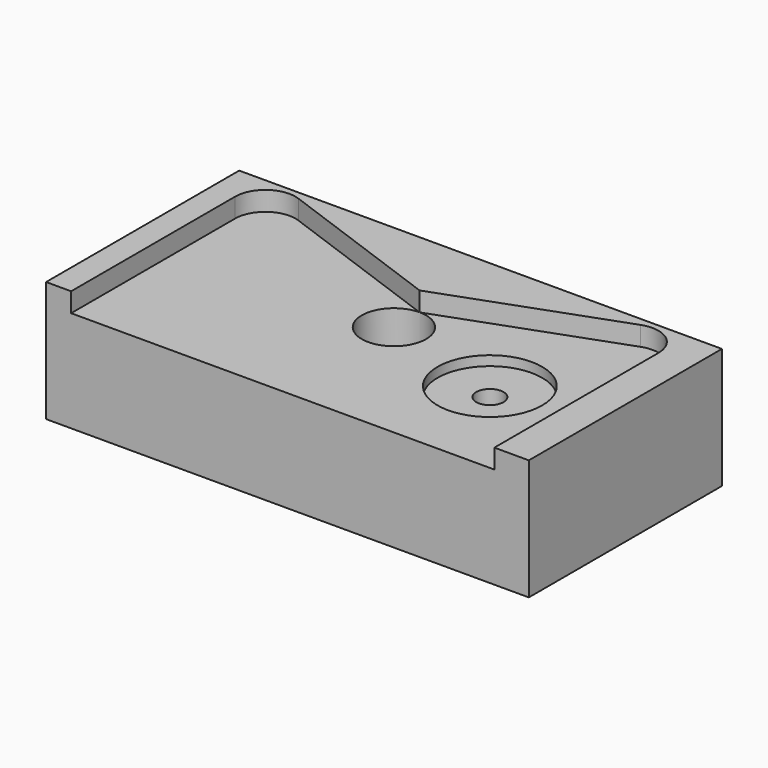
from build123d import *

# Parameters (mm, degrees)
F0_W      = 76.2
F0_H      = 38.1
F1_DEPTH  = 19.05
F3_DEPTH  = 3.048
F4_R      = 8.255
F5_DEPTH  = 4.572
F6_R      = 2.159
F7_DEPTH  = 12.7
F8_R      = 5.08
F9_DEPTH  = 12.7
F11_DEPTH = 3.048


with BuildPart() as f1:
    # F0 (on Top) → F1 (new body)
    with BuildSketch(Plane.XY):
        with Locations((38.1, 19.05)):
            Rectangle(F0_W, F0_H)
    extrude(amount=F1_DEPTH)

    # F2 (on face) → F3 (cut)
    with BuildSketch(Plane.XY.offset(19.05)):
        with BuildLine():
            ThreePointArc((7.0865621097, 27.8874175237), (11.4470908204, 28.4614920193), (13.4779330423, 32.3627036302))
            ThreePointArc((13.4779330423, 32.3627036302), (12.6166446532, 35.0943614084), (10.3443039749, 36.8379897367))
            ThreePointArc((10.3443039749, 36.8379897367), (4.2401469358, 33.9915745628), (7.0865621097, 27.8874175237))
        make_face()
        with BuildLine():
            ThreePointArc((10.3443039749, 36.8379897367), (12.6166446532, 35.0943614084), (13.4779330423, 32.3627036302))
            ThreePointArc((13.4779330423, 32.3627036302), (11.4470908204, 28.4614920193), (7.0865621097, 27.8874175237))
            Line((7.0865621097, 27.8874175237), (35.7283931912, 17.4626435552))
            ThreePointArc((35.7283931912, 17.4626435552), (32.5947641238, 21.9379296617), (35.7283931912, 26.4132157682))
            Line((35.7283931912, 26.4132157682), (37.3572641238, 27.0060763031))
            Line((37.3572641238, 27.0060763031), (10.3443039749, 36.8379897367))
        make_face()
        with BuildLine():
            Line((64.3702242728, 36.8379897367), (37.3572641238, 27.0060763031))
            Line((37.3572641238, 27.0060763031), (38.9861350564, 26.4132157682))
            ThreePointArc((38.9861350564, 26.4132157682), (41.2584757347, 24.6695874398), (42.1197641238, 21.9379296617))
            ThreePointArc((42.1197641238, 21.9379296617), (41.2584757347, 19.2062718836), (38.9861350564, 17.4626435552))
            Line((38.9861350564, 17.4626435552), (67.627966138, 27.8874175237))
            ThreePointArc((67.627966138, 27.8874175237), (61.5238090989, 30.7338326977), (64.3702242728, 36.8379897367))
        make_face()
        with BuildLine():
            Line((38.9861350564, 26.4132157682), (37.3572641238, 27.0060763031))
            Line((37.3572641238, 27.0060763031), (35.7283931912, 26.4132157682))
            ThreePointArc((35.7283931912, 26.4132157682), (37.3572641238, 26.7004296617), (38.9861350564, 26.4132157682))
        make_face()
        with BuildLine():
            ThreePointArc((35.7283931912, 26.4132157682), (32.5947641238, 21.9379296617), (35.7283931912, 17.4626435552))
            ThreePointArc((35.7283931912, 17.4626435552), (37.3572641238, 17.1754296617), (38.9861350564, 17.4626435552))
            ThreePointArc((38.9861350564, 17.4626435552), (41.2584757347, 19.2062718836), (42.1197641238, 21.9379296617))
            ThreePointArc((42.1197641238, 21.9379296617), (41.2584757347, 24.6695874398), (38.9861350564, 26.4132157682))
            ThreePointArc((38.9861350564, 26.4132157682), (37.3572641238, 26.7004296617), (35.7283931912, 26.4132157682))
        make_face()
        with BuildLine():
            ThreePointArc((70.7615952054, 32.3627036302), (68.7307529835, 36.2639152412), (64.3702242728, 36.8379897367))
            ThreePointArc((64.3702242728, 36.8379897367), (61.5238090989, 30.7338326977), (67.627966138, 27.8874175237))
            ThreePointArc((67.627966138, 27.8874175237), (69.9003068163, 29.6310458521), (70.7615952054, 32.3627036302))
        make_face()
    extrude(amount=-F3_DEPTH, mode=Mode.SUBTRACT)

    # F4 (on face) → F5 (cut)
    with BuildSketch(Plane.XY.offset(19.05)):
        with Locations((56.4142079383, 17.0484144696)):
            Circle(F4_R)
    extrude(amount=-F5_DEPTH, mode=Mode.SUBTRACT)

    # F6 (on face) → F7 (cut)
    with BuildSketch(Plane.XY.offset(14.478)):
        with Locations((56.4142079383, 17.0484144696)):
            Circle(F6_R)
    extrude(amount=-F7_DEPTH, mode=Mode.SUBTRACT)

    # F8 (on face) → F9 (cut)
    with BuildSketch(Plane.XY.offset(16.002)):
        with Locations((37.3572641238, 21.9379296617)):
            Circle(F8_R)
    extrude(amount=-F9_DEPTH, mode=Mode.SUBTRACT)

    # F10 (on face) → F11 (cut)
    with BuildSketch(Plane.XY.offset(19.05)):
        with BuildLine():
            ThreePointArc((7.0865621097, 27.8874175237), (4.8142214313, 29.6310458521), (3.9529330423, 32.3627036302))
            Line((3.9529330423, 32.3627036302), (3.9529330423, 0))
            Line((3.9529330423, 0), (70.7615952054, 0))
            Line((70.7615952054, 0), (70.7615952054, 32.3627036302))
            ThreePointArc((70.7615952054, 32.3627036302), (69.9003068163, 29.6310458521), (67.627966138, 27.8874175237))
            Line((67.627966138, 27.8874175237), (59.1989824769, 24.819518366))
            Line((59.1989824769, 24.819518366), (49.2857775794, 21.2114068571))
            Line((49.2857775794, 21.2114068571), (38.9861350564, 17.4626435552))
            ThreePointArc((38.9861350564, 17.4626435552), (37.3572641238, 17.1754296617), (35.7283931912, 17.4626435552))
            Line((35.7283931912, 17.4626435552), (7.0865621097, 27.8874175237))
        make_face()
    extrude(amount=-F11_DEPTH, mode=Mode.SUBTRACT)


solid = f1.part
